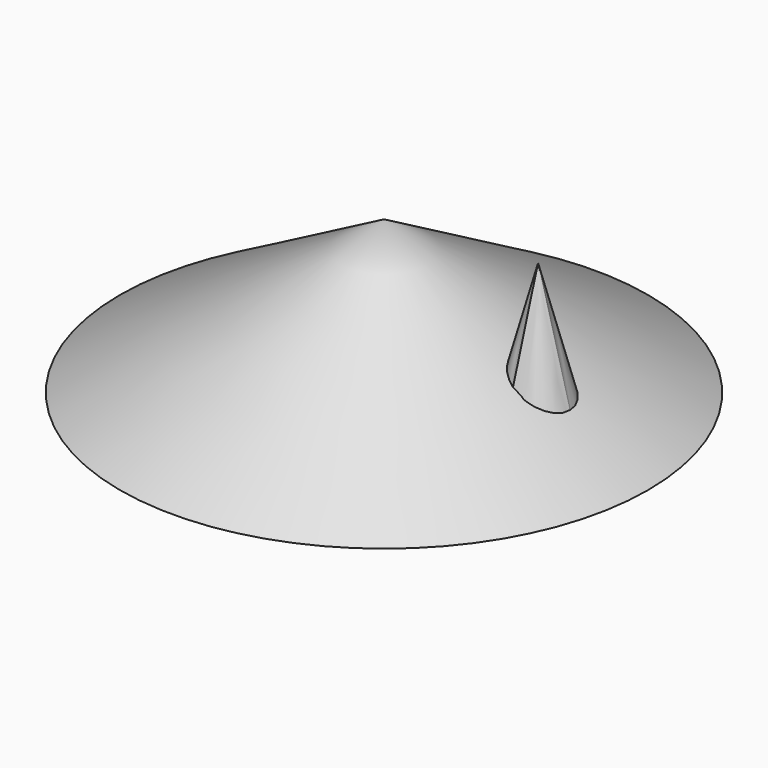
from build123d import *

# Parameters (mm, degrees)
F0_R     = 30
F1_DEPTH = 30
F1_TAPER = 60
F3_DEPTH = 25
F3_TAPER = 15


with BuildPart() as f1:
    # F0 (on Top) → F1 (new body)
    with BuildSketch(Plane.XY):
        Circle(F0_R)
    extrude(amount=F1_DEPTH, taper=F1_TAPER)


with BuildPart() as f3:
    # F2 (on Top) → F3 (new body)
    with BuildSketch(Plane.XY):
        with BuildLine():
            ThreePointArc((16.7857142857, 4.9487165931), (17.1974513187, 3.2400105154), (17.4357142857, 1.4986218158))
            ThreePointArc((17.4357142857, 1.4986218158), (18.5376828582, 1.0831501677), (19, 0))
            ThreePointArc((19, 0), (18.5376828582, -1.0831501677), (17.4357142857, -1.4986218158))
            ThreePointArc((17.4357142857, -1.4986218158), (17.1974513187, -3.2400105154), (16.7857142857, -4.9487165931))
            ThreePointArc((16.7857142857, -4.9487165931), (20.7732683535, -3.7796447301), (22.5, 0))
            ThreePointArc((22.5, 0), (20.7732683535, 3.7796447301), (16.7857142857, 4.9487165931))
        make_face()
        with BuildLine():
            ThreePointArc((16, 0), (16.4168498323, 1.0376828582), (17.4357142857, 1.4986218158))
            ThreePointArc((17.4357142857, 1.4986218158), (17.1974513187, 3.2400105154), (16.7857142857, 4.9487165931))
            ThreePointArc((16.7857142857, 4.9487165931), (13.7203552699, 3.2732683535), (12.5, 0))
            Line((12.5, 0), (16, 0))
        make_face()
        with BuildLine():
            ThreePointArc((17.4357142857, 1.4986218158), (17.4839211849, 0.75), (17.5, 0))
            Line((17.5, 0), (19, 0))
            ThreePointArc((19, 0), (18.5376828582, 1.0831501677), (17.4357142857, 1.4986218158))
        make_face()
        with BuildLine():
            Line((16, 0), (17.5, 0))
            ThreePointArc((17.5, 0), (17.4839211849, 0.75), (17.4357142857, 1.4986218158))
            ThreePointArc((17.4357142857, 1.4986218158), (16.4168498323, 1.0376828582), (16, 0))
        make_face()
        with BuildLine():
            Line((19, 0), (17.5, 0))
            ThreePointArc((17.5, 0), (17.4839211849, -0.75), (17.4357142857, -1.4986218158))
            ThreePointArc((17.4357142857, -1.4986218158), (18.5376828582, -1.0831501677), (19, 0))
        make_face()
        with BuildLine():
            ThreePointArc((17.4357142857, -1.4986218158), (17.4839211849, -0.75), (17.5, 0))
            Line((17.5, 0), (16, 0))
            ThreePointArc((16, 0), (16.4168498323, -1.0376828582), (17.4357142857, -1.4986218158))
        make_face()
        with BuildLine():
            ThreePointArc((16.7857142857, -4.9487165931), (17.1974513187, -3.2400105154), (17.4357142857, -1.4986218158))
            ThreePointArc((17.4357142857, -1.4986218158), (16.4168498323, -1.0376828582), (16, 0))
            Line((16, 0), (12.5, 0))
            ThreePointArc((12.5, 0), (13.7203552699, -3.2732683535), (16.7857142857, -4.9487165931))
        make_face()
    extrude(amount=F3_DEPTH, taper=F3_TAPER)


solid = Compound([f1.part, f3.part])
